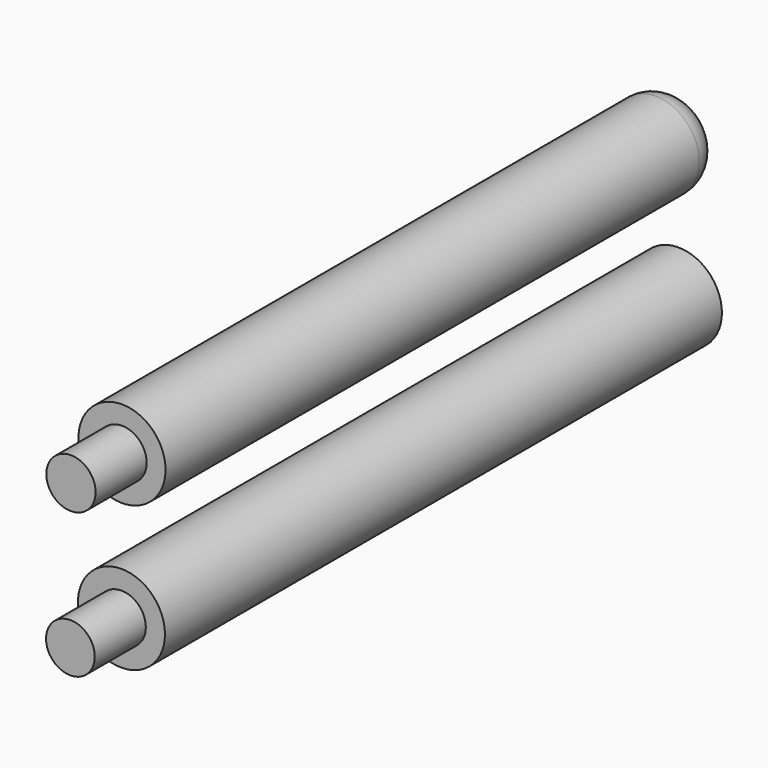
from build123d import *

# Parameters (mm, degrees)
F0_R     = 7.5
F0_R_2   = 4.25
F1_DEPTH = 120
F2_R     = 4.25
F3_DEPTH = 12
F4_R     = 4.2
F5_DEPTH = 11
F6_R     = 4.25
F7_DEPTH = 11
F8_R     = 5


with BuildPart() as f1:
    # F0 (on Front) → F1 (new body)
    with BuildSketch(Plane.XZ):
        Circle(F0_R)
        Circle(F0_R_2, mode=Mode.SUBTRACT)
        with Locations((0.096153, 25.000002)):
            Circle(F0_R)
        with Locations((0.096153, 25.000002)):
            Circle(F0_R_2, mode=Mode.SUBTRACT)
        Circle(F0_R_2)
        with Locations((0.096153, 25.000002)):
            Circle(F0_R_2)
    extrude(amount=F1_DEPTH)

    # F2 (on Front) → F3 (cut)
    with BuildSketch(Plane.XZ):
        Circle(F2_R)
    extrude(amount=F3_DEPTH, mode=Mode.SUBTRACT)

    # F4 (on face) → F5 (join)
    with BuildSketch(Plane.XZ.offset(120)):
        Circle(F4_R)
    extrude(amount=F5_DEPTH)

    # F6 (on face) → F7 (join)
    with BuildSketch(Plane.XZ.offset(120)):
        with Locations((0.096153, 25.000002)):
            Circle(F6_R)
    extrude(amount=F7_DEPTH)

    # F8
    f8_edges = [f1.edges().sort_by_distance(p)[0] for p in [
        (-7.403847, 0, 25.000002),
    ]]
    fillet(f8_edges, radius=F8_R)


solid = f1.part
